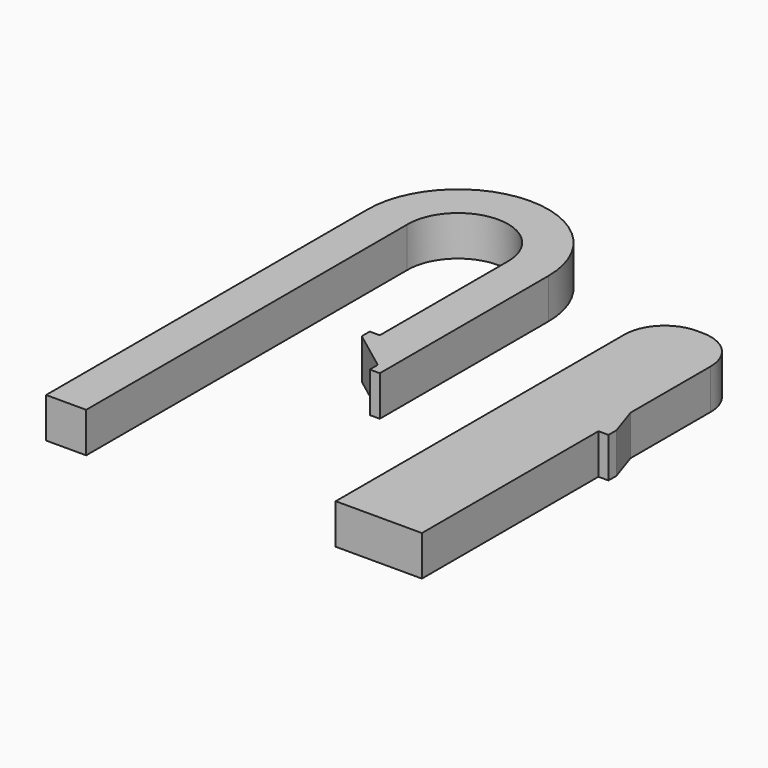
from build123d import *

# Parameters (mm, degrees)
F0_W     = 2
F0_H     = 20
F0_H_2   = 8
F0_W_2   = 0.5
F0_H_3   = 0.5
F1_DEPTH = 2
F2_R     = 2


with BuildPart() as f1:
    # F0 (on Top) → F1 (new body)
    with BuildSketch(Plane.XY):
        with Locations((-35.478104, 1.114134)):
            Rectangle(F0_W, F0_H)
        with BuildLine():
            ThreePointArc((-27.478104, 11.164438), (-32.003397, 15.664509), (-36.478104, 11.114134))
            Line((-36.478104, 11.114134), (-34.478104, 11.114134))
            ThreePointArc((-34.478104, 11.114134), (-32.003511, 13.664565), (-29.478104, 11.164438))
            Line((-29.478104, 11.164438), (-27.478104, 11.164438))
        make_face()
        with Locations((-28.478104, 7.164438)):
            Rectangle(F0_W, F0_H_2)
        Polygon((-27.478104, 1.164438), (-27.478104, 3.164438), (-29.478104, 3.164438), (-29.978104, 3.164438), (-29.978104, 2.664438), (-27.978104, 1.164438), align=None)
        with Locations((-27.728104, 0.914438)):
            Rectangle(F0_W_2, F0_H_3)
        Polygon((-17.77728, 11.164438), (-22.07728, 11.164438), (-22.07728, -8.835562), (-17.77728, -8.835562), (-17.77728, 2.164438), (-17.77728, 4.164438), align=None)
        Polygon((-17.27728, 2.664438), (-17.77728, 4.164438), (-17.77728, 2.164438), (-17.27728, 2.164438), align=None)
    extrude(amount=F1_DEPTH)

    # F2
    f2_edges = [f1.edges().sort_by_distance(p)[0] for p in [
        (-17.77728, 11.164438, 1),
        (-22.07728, 11.164438, 1),
    ]]
    fillet(f2_edges, radius=F2_R)


solid = f1.part
